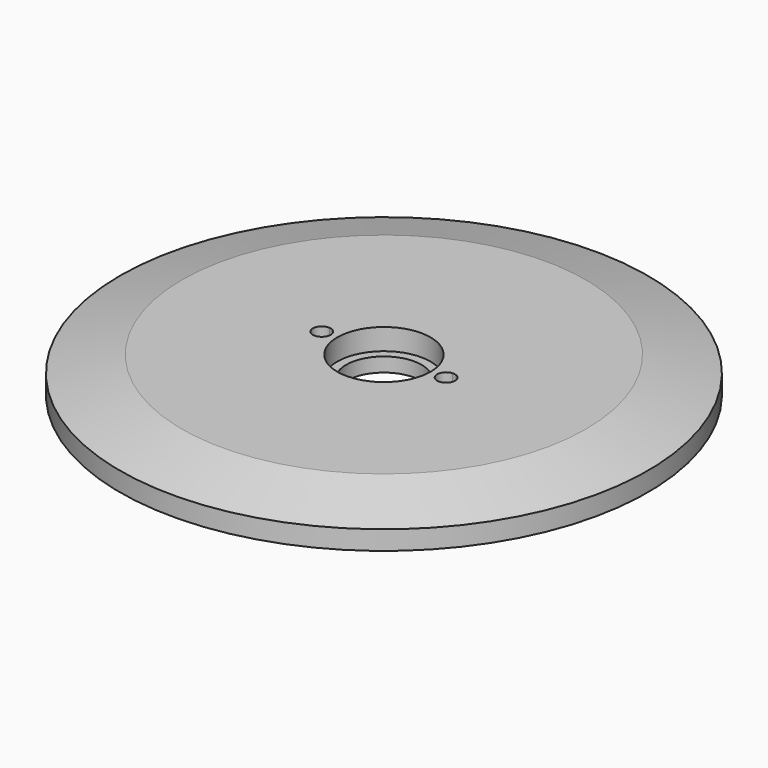
from build123d import *

# Parameters (mm, degrees)
F0_W     = 2
F0_H     = 8
F3_DEPTH = 25


with BuildPart() as f1:
    # F0 (on Front) → F1 (revolve)
    with BuildSketch(Plane.XZ):
        with BuildLine():
            Line((-53.7507587761, 0), (-16, 0))
            Line((-16, 0), (-16, 8))
            Line((-16, 8), (-45.5, 8))
            Line((-45.5, 8), (-59.45, 4.3))
            Line((-59.45, 4.3), (-59.45, 0))
            Line((-59.45, 0), (-56.548682875, 0))
            ThreePointArc((-56.548682875, 0), (-56.4072615188, 0.0585786438), (-56.348682875, 0.2))
            Line((-56.348682875, 0.2), (-56.348682875, 0.3437917702))
            ThreePointArc((-56.348682875, 0.3437917702), (-56.35, 0.4), (-56.348682875, 0.4562082298))
            ThreePointArc((-56.348682875, 0.4562082298), (-55.1432237144, 1.5999808673), (-53.9507587761, 0.442667165))
            ThreePointArc((-53.9507587761, 0.442667165), (-53.95, 0.4), (-53.9507587761, 0.357332835))
            Line((-53.9507587761, 0.357332835), (-53.9507587761, 0.2))
            ThreePointArc((-53.9507587761, 0.2), (-53.8921801324, 0.0585786438), (-53.7507587761, 0))
        make_face()
        with Locations((-13, 4)):
            Rectangle(F0_W, F0_H)
        with Locations((-15, 4)):
            Rectangle(F0_W, F0_H)
        Polygon((-12, 0), (-8.5, 0), (-8.5, 3.2), (-10.5, 3.2), (-10.5, 8), (-12, 8), align=None)
    revolve(axis=Axis((0, 0, 5.6), (0, 0, -1)))

    # F2 (on face) → F3 (cut)
    with BuildSketch(Plane.XY.offset(8)):
        with BuildLine():
            ThreePointArc((-13.8571428571, -1.9948914348), (-14, 0), (-13.8571428571, 1.9948914348))
            ThreePointArc((-13.8571428571, 1.9948914348), (-16, 0), (-13.8571428571, -1.9948914348))
        make_face()
        with BuildLine():
            ThreePointArc((-12, 0), (-12.5361498906, 1.3627702877), (-13.8571428571, 1.9948914348))
            ThreePointArc((-13.8571428571, 1.9948914348), (-14, 0), (-13.8571428571, -1.9948914348))
            ThreePointArc((-13.8571428571, -1.9948914348), (-12.5361498906, -1.3627702877), (-12, 0))
        make_face()
        with BuildLine():
            ThreePointArc((13.8571428571, -1.9948914348), (13.9642400438, -1), (14, 0))
            ThreePointArc((14, 0), (13.9642400438, 1), (13.8571428571, 1.9948914348))
            ThreePointArc((13.8571428571, 1.9948914348), (12, 0), (13.8571428571, -1.9948914348))
        make_face()
        with BuildLine():
            ThreePointArc((13.8571428571, 1.9948914348), (13.9642400438, 1), (14, 0))
            ThreePointArc((14, 0), (13.9642400438, -1), (13.8571428571, -1.9948914348))
            ThreePointArc((13.8571428571, -1.9948914348), (15.3627702877, -1.4638501094), (16, 0))
            ThreePointArc((16, 0), (15.3627702877, 1.4638501094), (13.8571428571, 1.9948914348))
        make_face()
    extrude(amount=-F3_DEPTH, mode=Mode.SUBTRACT)


solid = f1.part
